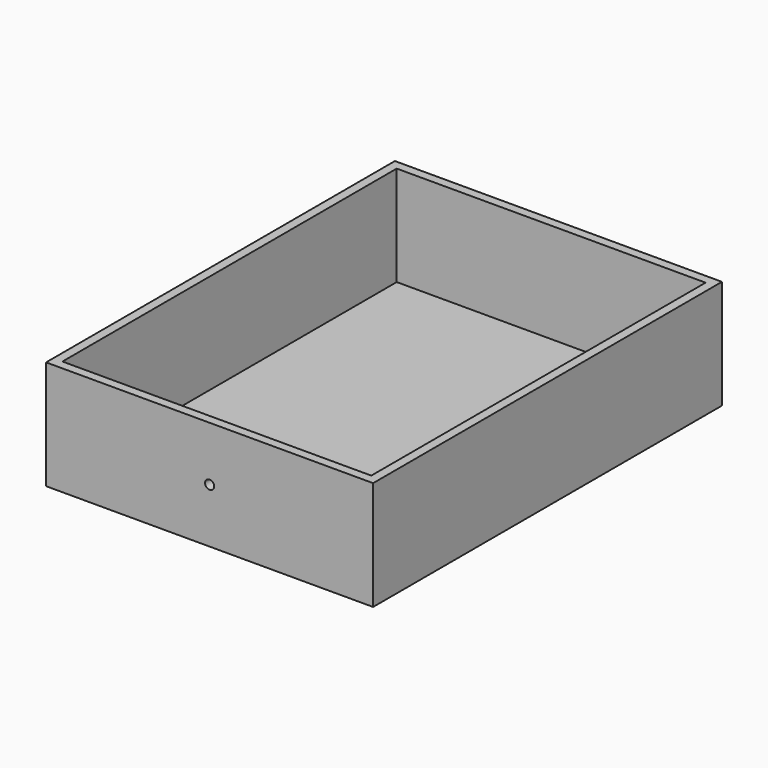
from build123d import *

# Parameters (mm, degrees)
F0_W     = 90
F0_H     = 30
F1_DEPTH = 120
F2_T     = -2.5
F3_R     = 1.25
F4_DEPTH = 25


with BuildPart() as f1:
    # F0 (on Front) → F1 (new body)
    with BuildSketch(Plane.XZ):
        Rectangle(F0_W, F0_H)
    extrude(amount=F1_DEPTH)

    # F2
    f2_openings = [f1.faces().sort_by_distance(p)[0] for p in [
        (0, -60, 15),
    ]]
    offset(amount=F2_T, openings=f2_openings)

    # F3 (on face) → F4 (cut)
    with BuildSketch(Plane.XZ.offset(120)):
        Circle(F3_R)
    extrude(amount=-F4_DEPTH, mode=Mode.SUBTRACT)


solid = f1.part
